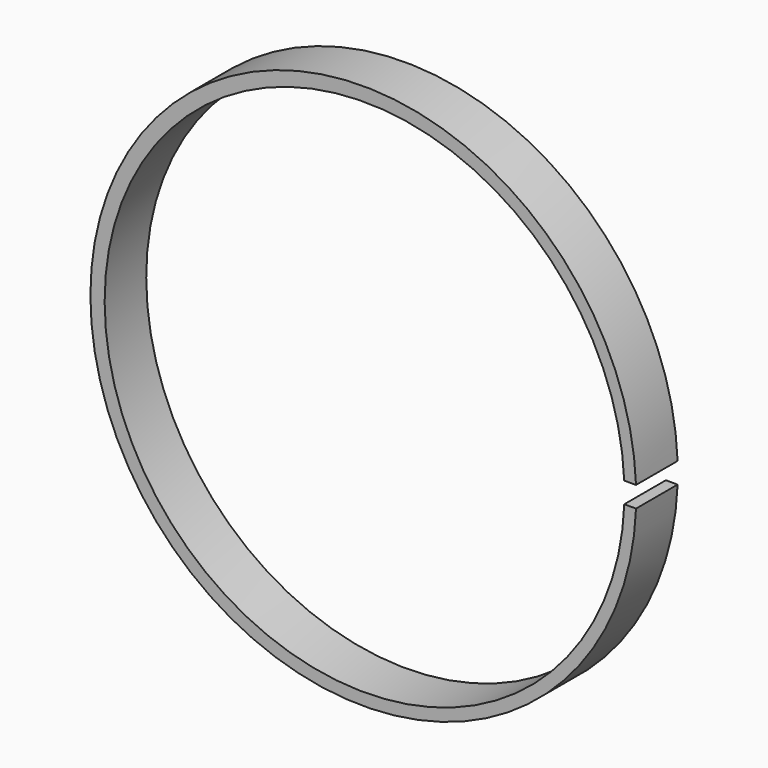
from build123d import *

# Parameters (mm, degrees)
SKETCH035_R     = 52.5
PAD012_DEPTH    = 10
SKETCH034_R     = 50
POCKET006_DEPTH = 25
SKETCH033_W     = 65.896674
SKETCH033_H     = 4
POCKET007_DEPTH = 21


with BuildPart() as part:
    # Sketch035 → Pad012 (new body)
    with BuildSketch(Plane.XZ):
        Circle(SKETCH035_R)
    extrude(amount=PAD012_DEPTH)

    # Sketch034 (on Face3 of Pad012) → Pocket006 (cut)
    with BuildSketch(Plane.XZ.offset(10)):
        with Locations((0.237796, -0.12528)):
            Circle(SKETCH034_R)
    extrude(amount=-POCKET006_DEPTH, mode=Mode.SUBTRACT)

    # Sketch033 (on Face3 of Pocket006) → Pocket007 (cut)
    with BuildSketch(Plane.XZ.offset(10)):
        with Locations((32.948337, 0)):
            Rectangle(SKETCH033_W, SKETCH033_H)
    extrude(amount=-POCKET007_DEPTH, mode=Mode.SUBTRACT)


with BuildPart() as part_1:
    # Body010 placement: moved
    add(part.part.moved(Location((0, 33, 0))))


solid = part_1.part
